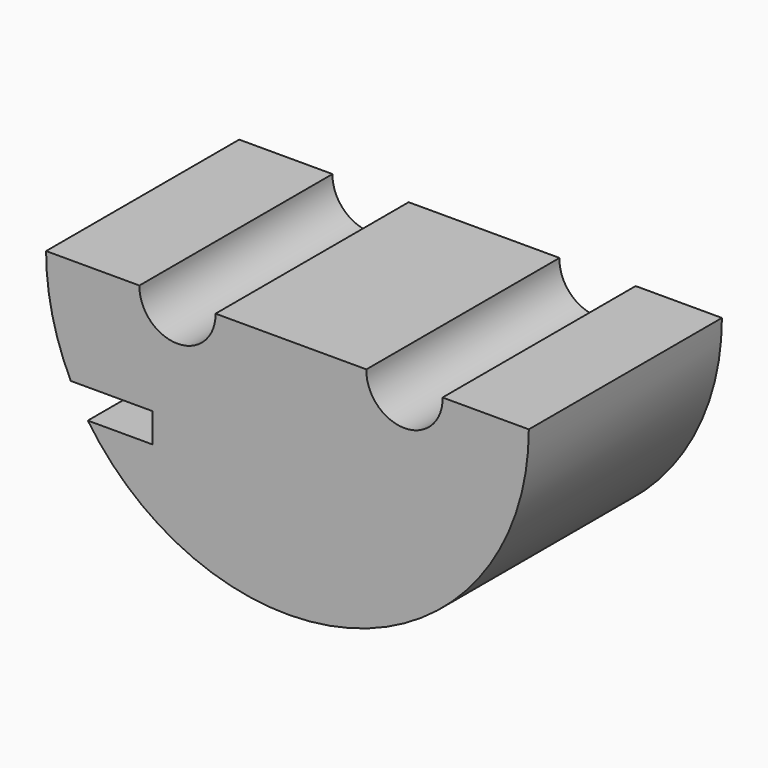
from build123d import *

# Parameters (mm, degrees)
F1_DEPTH = 25.4


with BuildPart() as f1:
    # F0 (on Front) → F1 (new body)
    with BuildSketch(Plane.XZ):
        with BuildLine():
            Line((-29.405238, 28.601203), (-39.224138, 28.601203))
            ThreePointArc((-39.224138, 28.601203), (-38.566324, 22.858012), (-36.626953, 17.412298))
            Line((-36.626953, 17.412298), (-28.018219, 17.412298))
            Line((-28.018219, 17.412298), (-28.018219, 14.324667))
            Line((-28.018219, 14.324667), (-34.832244, 14.324667))
            ThreePointArc((-34.832244, 14.324667), (-6.355734, 4.323993), (11.575862, 28.601203))
            Line((11.575862, 28.601203), (2.49622, 28.601203))
            ThreePointArc((2.49622, 28.601203), (-1.510726, 24.460252), (-5.517673, 28.601203))
            Line((-5.517673, 28.601203), (-21.391345, 28.601203))
            ThreePointArc((-21.391345, 28.601203), (-25.398292, 24.516166), (-29.405238, 28.601203))
        make_face()
    extrude(amount=F1_DEPTH)


solid = f1.part
